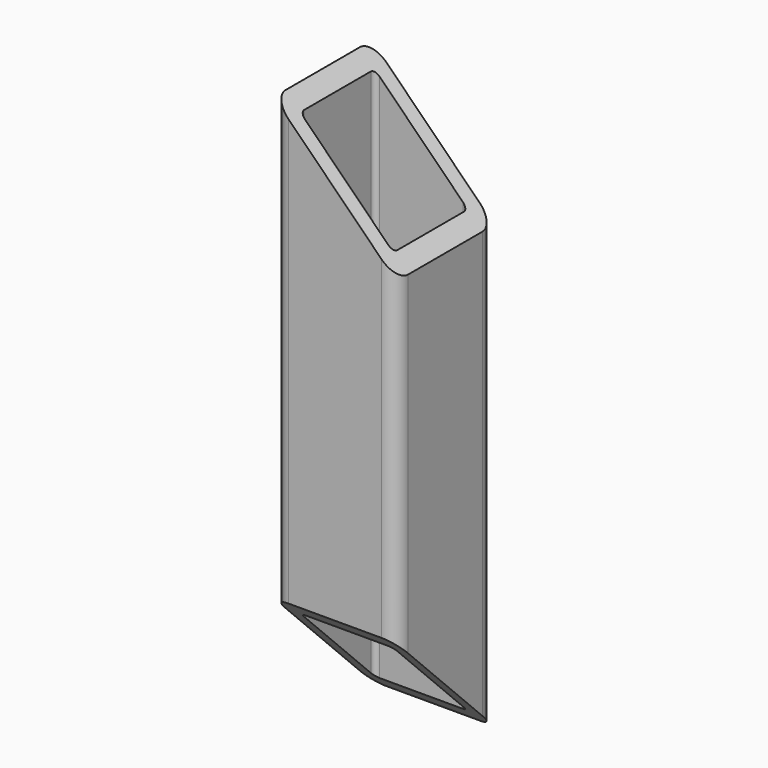
from build123d import *

# Parameters (mm, degrees)
F0_W     = 25
F0_H     = 25
F0_W_2   = 19
F0_H_2   = 19
F1_DEPTH = 120
F2_R     = 1
F3_R     = 3
F5_DEPTH = 25.001
F7_DEPTH = 25.001


with BuildPart() as f1:
    # F0 (on Top) → F1 (new body)
    with BuildSketch(Plane.XY):
        Rectangle(F0_W, F0_H)
        Rectangle(F0_W_2, F0_H_2, mode=Mode.SUBTRACT)
    extrude(amount=F1_DEPTH)

    # F2
    f2_edges = [f1.edges().sort_by_distance(p)[0] for p in [
        (-9.5, -9.5, 60),
        (-9.5, 9.5, 60),
        (9.5, 9.5, 60),
        (9.5, -9.5, 60),
    ]]
    fillet(f2_edges, radius=F2_R)

    # F3
    f3_edges = [f1.edges().sort_by_distance(p)[0] for p in [
        (-12.5, 12.5, 60),
        (-12.5, -12.5, 60),
        (12.5, 12.5, 60),
        (12.5, -12.5, 60),
    ]]
    fillet(f3_edges, radius=F3_R)

    # F4 (on face) → F5 (cut, through all)
    with BuildSketch(Plane.XZ.offset(12.5)):
        Polygon((-9.5, 120), (-9.5, 114.5), (9.5, 95.5), (9.5, 120), align=None)
        Polygon((-9.5, 120), (-15, 120), (-9.5, 114.5), align=None)
        Polygon((9.5, 120), (9.5, 95.5), (15, 90), (15, 120), align=None)
    extrude(amount=-F5_DEPTH, mode=Mode.SUBTRACT)

    # F6 (on face) → F7 (cut, through all)
    with BuildSketch(Plane.YZ.offset(12.5)):
        Polygon((-9.5, 0), (-9.5, 24.5), (-15, 30), (-15, 0), align=None)
        Polygon((9.5, 0), (9.5, 5.5), (-9.5, 24.5), (-9.5, 0), align=None)
        Polygon((9.5, 0), (15, 0), (9.5, 5.5), align=None)
    extrude(amount=-F7_DEPTH, mode=Mode.SUBTRACT)


solid = f1.part
